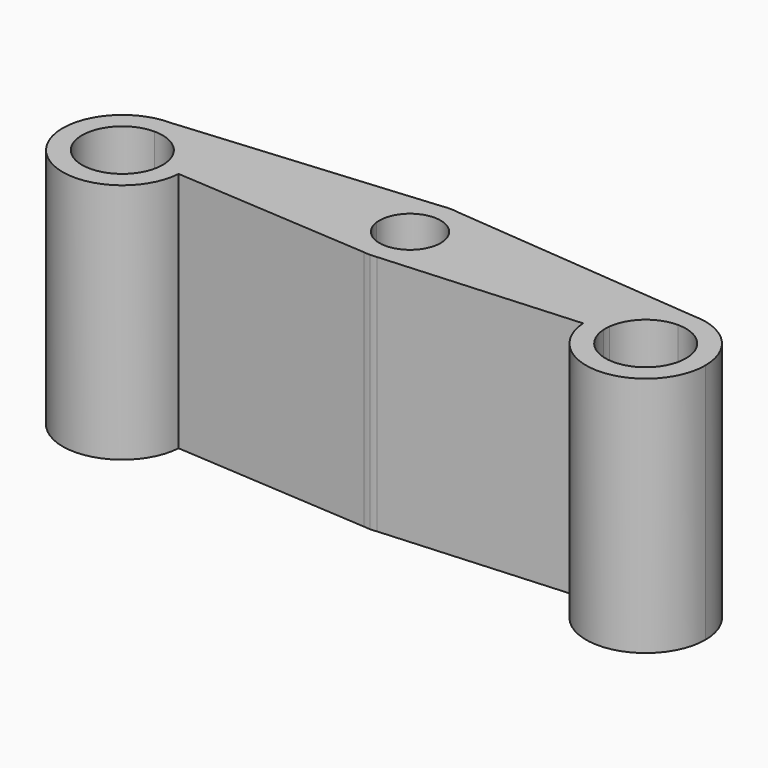
from build123d import *

# Parameters (mm, degrees)
F1_DEPTH = 15


with BuildPart() as f1:
    # F0 (on Top) → F1 (new body)
    with BuildSketch(Plane.XY):
        with BuildLine():
            ThreePointArc((-12.7070632326, 1.7862736847), (-10.9390427498, 3.917104733), (-8.9215855435, 2.0207387861))
            ThreePointArc((-8.9215855435, 2.0207387861), (-8.9252195965, 1.9032815798), (-8.9361078543, 1.7862736847))
            Line((-8.9361078543, 1.7862736847), (-7.7452798401, 1.6381904628))
            ThreePointArc((-7.7452798401, 1.6381904628), (-7.7275147879, 1.8290980811), (-7.7215855435, 2.0207387861))
            ThreePointArc((-7.7215855435, 2.0207387861), (-8.4469636253, 4.0135184392), (-10.283631186, 5.073705394))
            Line((-10.283631186, 5.073705394), (-10.8215855435, 5.1207387861))
            Line((-10.8215855435, 5.1207387861), (-11.359539901, 5.073705394))
            ThreePointArc((-11.359539901, 5.073705394), (-13.3148584241, 3.8629087952), (-13.8978912468, 1.6381904628))
            Line((-13.8978912468, 1.6381904628), (-12.7070632326, 1.7862736847))
        make_face()
        with BuildLine():
            ThreePointArc((-8.9361078543, 1.7862736847), (-10.8215855435, 0.1207387861), (-12.7070632326, 1.7862736847))
            Line((-12.7070632326, 1.7862736847), (-13.8978912468, 1.6381904628))
            ThreePointArc((-13.8978912468, 1.6381904628), (-13.0233704275, -0.1614947771), (-11.2315567845, -1.0520325333))
            Line((-11.2315567845, -1.0520325333), (-10.8215855435, -1.0792612139))
            Line((-10.8215855435, -1.0792612139), (-10.4116143024, -1.0520325333))
            ThreePointArc((-10.4116143024, -1.0520325333), (-8.6198006594, -0.1614947771), (-7.7452798401, 1.6381904628))
            Line((-7.7452798401, 1.6381904628), (-8.9361078543, 1.7862736847))
        make_face()
        with BuildLine():
            ThreePointArc((-11.2315567845, -1.0520325333), (-13.0233704275, -0.1614947771), (-13.8978912468, 1.6381904628))
            Line((-13.8978912468, 1.6381904628), (-23.399865833, 0.4565899342))
            ThreePointArc((-23.399865833, 0.4565899342), (-23.3786623836, 0.2287324544), (-23.3715855435, 0))
            ThreePointArc((-23.3715855435, 0), (-23.3736195092, -0.122667069), (-23.3797191704, -0.2451992728))
            Line((-23.3797191704, -0.2451992728), (-11.2315567845, -1.0520325333))
        make_face()
        with BuildLine():
            Line((-23.399865833, 0.4565899342), (-13.8978912468, 1.6381904628))
            ThreePointArc((-13.8978912468, 1.6381904628), (-13.3148584241, 3.8629087952), (-11.359539901, 5.073705394))
            Line((-11.359539901, 5.073705394), (-27.0715855435, 3.7))
            ThreePointArc((-27.0715855435, 3.7), (-24.6220328043, 2.7730292783), (-23.399865833, 0.4565899342))
        make_face()
        with BuildLine():
            ThreePointArc((-7.7215855435, 2.0207387861), (-7.7275147879, 1.8290980811), (-7.7452798401, 1.6381904628))
            Line((-7.7452798401, 1.6381904628), (1.7566947461, 0.4565899342))
            ThreePointArc((1.7566947461, 0.4565899342), (2.9788617174, 2.7730292783), (5.4284144565, 3.7))
            Line((5.4284144565, 3.7), (-10.283631186, 5.073705394))
            ThreePointArc((-10.283631186, 5.073705394), (-8.4469636253, 4.0135184392), (-7.7215855435, 2.0207387861))
        make_face()
        with BuildLine():
            Line((1.7566947461, 0.4565899342), (-7.7452798401, 1.6381904628))
            ThreePointArc((-7.7452798401, 1.6381904628), (-8.6198006594, -0.1614947771), (-10.4116143024, -1.0520325333))
            Line((-10.4116143024, -1.0520325333), (1.7365480835, -0.2451992728))
            ThreePointArc((1.7365480835, -0.2451992728), (1.7299381453, 0.1061742668), (1.7566947461, 0.4565899342))
        make_face()
        with BuildLine():
            ThreePointArc((-23.3715855435, 0), (-23.3786623836, 0.2287324544), (-23.399865833, 0.4565899342))
            Line((-23.399865833, 0.4565899342), (-24.5906938472, 0.3085067123))
            ThreePointArc((-24.5906938472, 0.3085067123), (-24.5763671922, 0.1545489557), (-24.5715855435, 0))
            ThreePointArc((-24.5715855435, 0), (-24.5729598447, -0.0828831547), (-24.5770812373, -0.1656751843))
            Line((-24.5770812373, -0.1656751843), (-23.3797191704, -0.2451992728))
            ThreePointArc((-23.3797191704, -0.2451992728), (-23.3736195092, -0.122667069), (-23.3715855435, 0))
        make_face()
        with BuildLine():
            Line((-24.5906938472, 0.3085067123), (-23.399865833, 0.4565899342))
            ThreePointArc((-23.399865833, 0.4565899342), (-24.6220328043, 2.7730292783), (-27.0715855435, 3.7))
            Line((-27.0715855435, 3.7), (-27.0715855435, 2.5))
            ThreePointArc((-27.0715855435, 2.5), (-25.4164823413, 1.8736684313), (-24.5906938472, 0.3085067123))
        make_face()
        with BuildLine():
            ThreePointArc((-10.8215855435, 5.1207387861), (-11.0915887984, 5.1089580533), (-11.359539901, 5.073705394))
            Line((-11.359539901, 5.073705394), (-10.8215855435, 5.1207387861))
        make_face()
        with BuildLine():
            Line((-10.8215855435, -1.0792612139), (-11.2315567845, -1.0520325333))
            ThreePointArc((-11.2315567845, -1.0520325333), (-11.027022772, -1.0724465535), (-10.8215855435, -1.0792612139))
        make_face()
        with BuildLine():
            ThreePointArc((5.4284144565, 3.7), (2.9788617174, 2.7730292783), (1.7566947461, 0.4565899342))
            Line((1.7566947461, 0.4565899342), (2.9475227603, 0.3085067123))
            ThreePointArc((2.9475227603, 0.3085067123), (3.7733112544, 1.8736684313), (5.4284144565, 2.5))
            Line((5.4284144565, 2.5), (5.4284144565, 3.7))
        make_face()
        with BuildLine():
            Line((2.9475227603, 0.3085067123), (1.7566947461, 0.4565899342))
            ThreePointArc((1.7566947461, 0.4565899342), (1.7299381453, 0.1061742668), (1.7365480835, -0.2451992728))
            Line((1.7365480835, -0.2451992728), (2.9339101504, -0.1656751843))
            ThreePointArc((2.9339101504, -0.1656751843), (2.929443976, 0.0717393695), (2.9475227603, 0.3085067123))
        make_face()
        with BuildLine():
            ThreePointArc((-10.8215855435, -1.0792612139), (-10.6161483149, -1.0724465535), (-10.4116143024, -1.0520325333))
            Line((-10.4116143024, -1.0520325333), (-10.8215855435, -1.0792612139))
        make_face()
        with BuildLine():
            Line((-27.0715855435, 2.5), (-27.0715855435, 3.7))
            ThreePointArc((-27.0715855435, 3.7), (-29.7731811192, -2.5281181431), (-23.3797191704, -0.2451992728))
            Line((-23.3797191704, -0.2451992728), (-24.5770812373, -0.1656751843))
            ThreePointArc((-24.5770812373, -0.1656751843), (-28.8969879595, -1.7081879345), (-27.0715855435, 2.5))
        make_face()
        with BuildLine():
            ThreePointArc((-10.283631186, 5.073705394), (-10.5515822885, 5.1089580533), (-10.8215855435, 5.1207387861))
            Line((-10.8215855435, 5.1207387861), (-10.283631186, 5.073705394))
        make_face()
        with BuildLine():
            ThreePointArc((9.1284144565, 0), (8.0447095469, 2.6162950904), (5.4284144565, 3.7))
            Line((5.4284144565, 3.7), (5.4284144565, 2.5))
            ThreePointArc((5.4284144565, 2.5), (7.1961814095, 1.767766953), (7.9284144565, 0))
            ThreePointArc((7.9284144565, 0), (5.5112976113, -2.4986256988), (2.9339101504, -0.1656751843))
            Line((2.9339101504, -0.1656751843), (1.7365480835, -0.2451992728))
            ThreePointArc((1.7365480835, -0.2451992728), (5.5510815256, -3.6979660342), (9.1284144565, 0))
        make_face()
    extrude(amount=F1_DEPTH)


solid = f1.part
